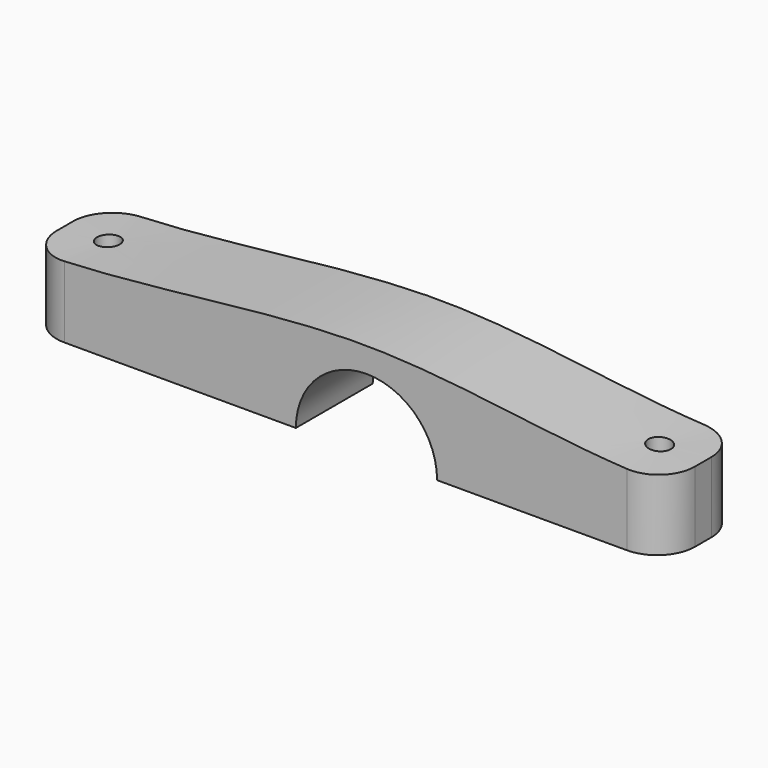
from build123d import *

# Parameters (mm, degrees)
F1_DEPTH = 12.7
F2_R     = 5
F3_R     = 1.5
F4_DEPTH = 19.1


with BuildPart() as f1:
    # F0 (on Front) → F1 (new body)
    with BuildSketch(Plane.XZ):
        with BuildLine():
            Line((9.34, 0), (39.4412088344, 0))
            Line((39.4412088344, 0), (39.4394582065, 9.3399980128))
            Line((39.4394582065, 9.3399980128), (0, 9.34))
            ThreePointArc((0, 9.34), (6.6043773363, 6.6043773363), (9.34, 0))
        make_face()
        with BuildLine():
            Line((0, 9.34), (39.4394582065, 9.3399980128))
            add(Edge.make_bspline(
                [(-44.9675657917, 9.3399980128), (-29.6900332628, 9.339998688), (-0.1580063373, 15.8879383906), (26.3566872689, 9.339998672), (39.4394582065, 9.3399980128)],
                knots=[0, 0, 0, 0, 0.5162924895, 1, 1, 1, 1], degree=3))
            Line((-44.9675657917, 9.3399980128), (0, 9.34))
        make_face()
        with BuildLine():
            ThreePointArc((-9.34, 0), (-6.6043773363, 6.6043773363), (0, 9.34))
            Line((0, 9.34), (-44.9675657917, 9.3399980128))
            Line((-44.9675657917, 9.3399980128), (-44.9658151637, 0))
            Line((-44.9658151637, 0), (-9.34, 0))
        make_face()
    extrude(amount=F1_DEPTH)

    # F2
    f2_edges = [f1.edges().sort_by_distance(p)[0] for p in [
        (-44.96669, -12.7, 4.669999),
        (-44.96669, 0, 4.669999),
        (39.440334, -12.7, 4.669999),
        (39.440334, 0, 4.669999),
    ]]
    fillet(f2_edges, radius=F2_R)

    # F3 (on Top) → F4 (cut)
    with BuildSketch(Plane.XY):
        with Locations((-39.2175657917, -6.35)):
            Circle(F3_R)
        with Locations((33.6894582065, -6.35)):
            Circle(F3_R)
    extrude(amount=F4_DEPTH, mode=Mode.SUBTRACT)


solid = f1.part
